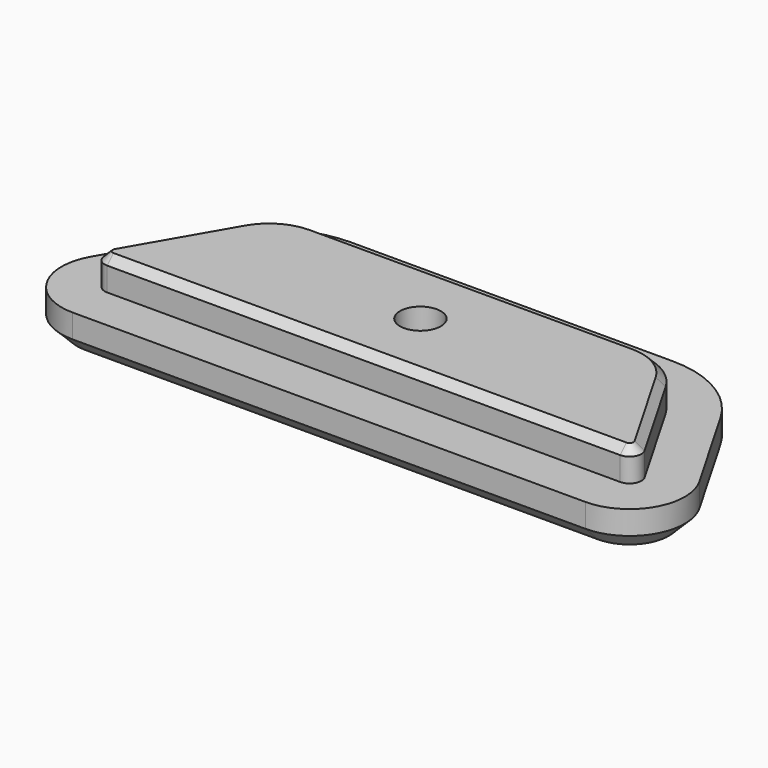
from build123d import *

# Parameters (mm, degrees)
SKETCH178_R     = 2.6
PAD045_DEPTH    = 4
SKETCH180_R     = 2.6
PAD046_DEPTH    = 5
SKETCH179_R     = 2.6
POCKET098_DEPTH = 5
SKETCH194_R     = 8.1
POCKET109_DEPTH = 8
CHAMFER075_SIZE = 3
CHAMFER076_SIZE = 2
CHAMFER077_SIZE = 1


with BuildPart() as part:
    # Sketch178 → Pad045 (new body)
    with BuildSketch(Plane.XY):
        with BuildLine():
            Line((-32.5531808711, 18.27), (32.5531808711, 18.27))
            ThreePointArc((32.5531808711, 18.27), (33.8522189768, 19.02), (33.8522189768, 20.52))
            Line((26.9240157465, 32.52), (33.8522189768, 20.52))
            ThreePointArc((26.9240157465, 32.52), (24.1788252181, 35.2651905284), (20.4288252181, 36.27))
            Line((-20.4288252181, 36.27), (20.4288252181, 36.27))
            ThreePointArc((-20.4288252181, 36.27), (-24.1788252181, 35.2651905284), (-26.9240157465, 32.52))
            Line((-26.9240157465, 32.52), (-33.8522189768, 20.52))
            ThreePointArc((-33.8522189768, 20.52), (-33.8522189768, 19.02), (-32.5531808711, 18.27))
        make_face()
        with Locations((0, 27.27)):
            Circle(SKETCH178_R, mode=Mode.SUBTRACT)
    extrude(amount=PAD045_DEPTH)

    # Sketch180 → Pad046 (join)
    with BuildSketch(Plane.XY.offset(-5)):
        with BuildLine():
            Line((-32.5531808711, 12.77), (32.5531808711, 12.77))
            ThreePointArc((32.5531808711, 12.77), (38.6153586976, 16.27), (38.6153586976, 23.27))
            Line((31.6871554673, 35.27), (38.6153586976, 23.27))
            ThreePointArc((31.6871554673, 35.27), (26.9288252181, 40.0283302492), (20.4288252181, 41.77))
            Line((-20.4288252181, 41.77), (20.4288252181, 41.77))
            ThreePointArc((-20.4288252181, 41.77), (-26.9288252181, 40.0283302492), (-31.6871554673, 35.27))
            Line((-31.6871554673, 35.27), (-38.6153586976, 23.27))
            ThreePointArc((-38.6153586976, 23.27), (-38.6153586976, 16.27), (-32.5531808711, 12.77))
        make_face()
        with Locations((0, 27.27)):
            Circle(SKETCH180_R, mode=Mode.SUBTRACT)
    extrude(amount=PAD046_DEPTH)

    # Sketch179 → Pocket098 (cut)
    with BuildSketch(Plane.XY.offset(-5)):
        with BuildLine():
            Line((-29.0890792559, 19.77), (29.0890792559, 19.77))
            ThreePointArc((29.0890792559, 19.77), (30.8211300635, 20.77), (30.8211300635, 22.77))
            Line((25.6249776408, 31.77), (30.8211300635, 22.77))
            ThreePointArc((25.6249776408, 31.77), (23.4288252181, 33.9661524227), (20.4288252181, 34.77))
            Line((-20.4288252181, 34.77), (20.4288252181, 34.77))
            ThreePointArc((-20.4288252181, 34.77), (-23.4288252181, 33.9661524227), (-25.6249776408, 31.77))
            Line((-25.6249776408, 31.77), (-30.8211300635, 22.77))
            ThreePointArc((-30.8211300635, 22.77), (-30.8211300635, 20.77), (-29.0890792559, 19.77))
        make_face()
        with Locations((0, 27.27)):
            Circle(SKETCH179_R, mode=Mode.SUBTRACT)
    extrude(amount=POCKET098_DEPTH, mode=Mode.SUBTRACT)

    # Sketch194 → Pocket109 (cut)
    with BuildSketch(Plane.XY):
        with Locations((0, 27.27)):
            Circle(SKETCH194_R)
    extrude(amount=-POCKET109_DEPTH, mode=Mode.SUBTRACT)

    # Chamfer075
    chamfer075_edges = [part.edges().sort_by_distance(p)[0] for p in [
        (0, 35.37, -5),
        (-11.744118, 34.77, -5),
        (11.744118, 34.77, -5),
        (-23.428825, 33.966152, -5),
        (-28.223054, 27.27, -5),
        (-30.82113, 20.77, -5),
        (-16.074245, 19.77, -5),
        (0, 19.17, -5),
        (16.074245, 19.77, -5),
        (30.82113, 20.77, -5),
        (28.223054, 27.27, -5),
        (23.428825, 33.966152, -5),
    ]]
    chamfer(chamfer075_edges, length=CHAMFER075_SIZE)

    # Chamfer076
    chamfer076_edges = [part.edges().sort_by_distance(p)[0] for p in [
        (0, 41.77, -5),
    ]]
    chamfer(chamfer076_edges, length=CHAMFER076_SIZE)

    # Chamfer077
    chamfer077_edges = [part.edges().sort_by_distance(p)[0] for p in [
        (0, 36.27, 4),
    ]]
    chamfer(chamfer077_edges, length=CHAMFER077_SIZE)


solid = part.part
